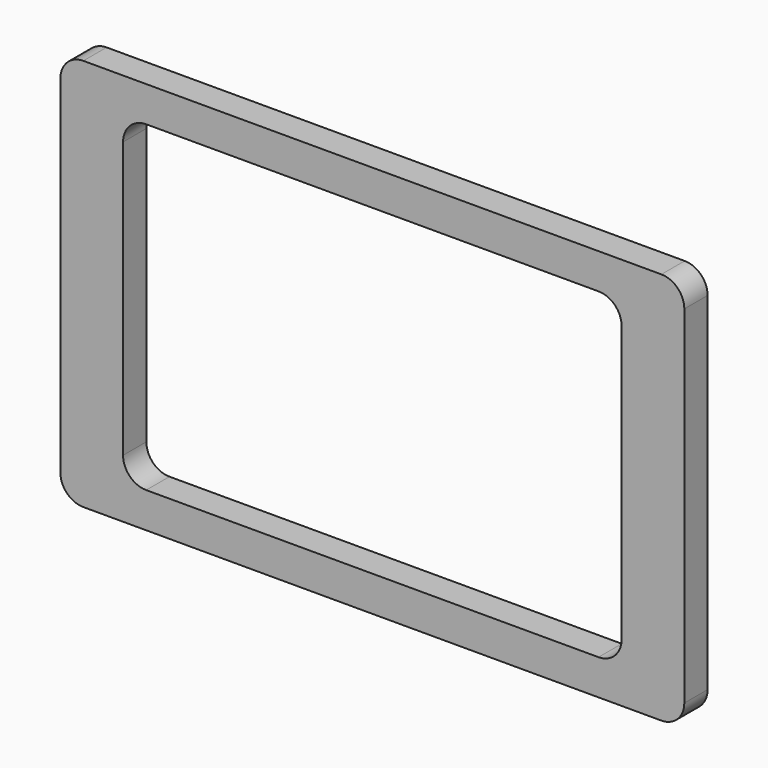
from build123d import *

# Parameters (mm, degrees)
F1_DEPTH = 4


with BuildPart() as f1:
    # F0 (on Front) → F1 (new body)
    with BuildSketch(Plane.XZ):
        with BuildLine():
            Line((0, 26.9875), (-39.7125, 26.9875))
            ThreePointArc((-39.7125, 26.9875), (-41.939886, 26.064886), (-42.8625, 23.8375))
            Line((-42.8625, 23.8375), (-42.8625, 0))
            Line((-42.8625, 0), (-34.25, 0))
            Line((-34.25, 0), (-34.25, 18.95))
            ThreePointArc((-34.25, 18.95), (-33.320064, 21.195064), (-31.075, 22.125))
            Line((-31.075, 22.125), (0, 22.125))
            Line((0, 22.125), (0, 26.9875))
        make_face()
        with BuildLine():
            Line((39.7125, 26.9875), (0, 26.9875))
            Line((0, 26.9875), (0, 22.125))
            Line((0, 22.125), (31.075, 22.125))
            ThreePointArc((31.075, 22.125), (33.320064, 21.195064), (34.25, 18.95))
            Line((34.25, 18.95), (34.25, -18.95))
            ThreePointArc((34.25, -18.95), (33.320064, -21.195064), (31.075, -22.125))
            Line((31.075, -22.125), (-31.075, -22.125))
            ThreePointArc((-31.075, -22.125), (-33.320064, -21.195064), (-34.25, -18.95))
            Line((-34.25, -18.95), (-34.25, 0))
            Line((-34.25, 0), (-42.8625, 0))
            Line((-42.8625, 0), (-42.8625, -23.8375))
            ThreePointArc((-42.8625, -23.8375), (-41.939886, -26.064886), (-39.7125, -26.9875))
            Line((-39.7125, -26.9875), (39.7125, -26.9875))
            ThreePointArc((39.7125, -26.9875), (41.939886, -26.064886), (42.8625, -23.8375))
            Line((42.8625, -23.8375), (42.8625, 23.8375))
            ThreePointArc((42.8625, 23.8375), (41.939886, 26.064886), (39.7125, 26.9875))
        make_face()
    extrude(amount=F1_DEPTH)


solid = f1.part
